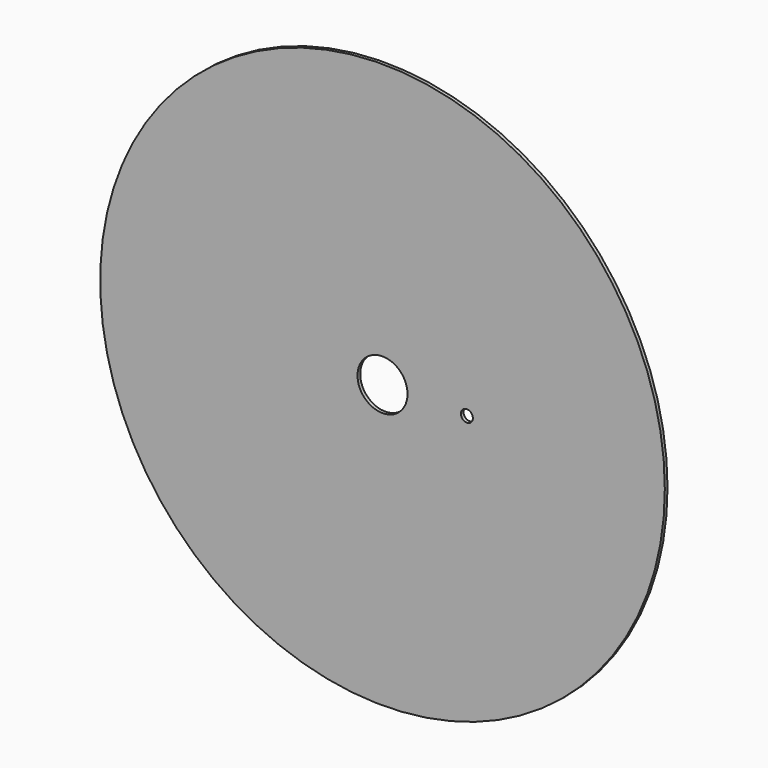
from build123d import *

# Parameters (mm, degrees)
F0_R     = 502
F0_R_2   = 44.45
F0_R_3   = 10.65
F1_DEPTH = 6


with BuildPart() as f1:
    # F0 (on Front) → F1 (new body)
    with BuildSketch(Plane.XZ):
        Circle(F0_R)
        Circle(F0_R_2, mode=Mode.SUBTRACT)
        with Locations((150, 0)):
            Circle(F0_R_3, mode=Mode.SUBTRACT)
    extrude(amount=-F1_DEPTH)


solid = f1.part
